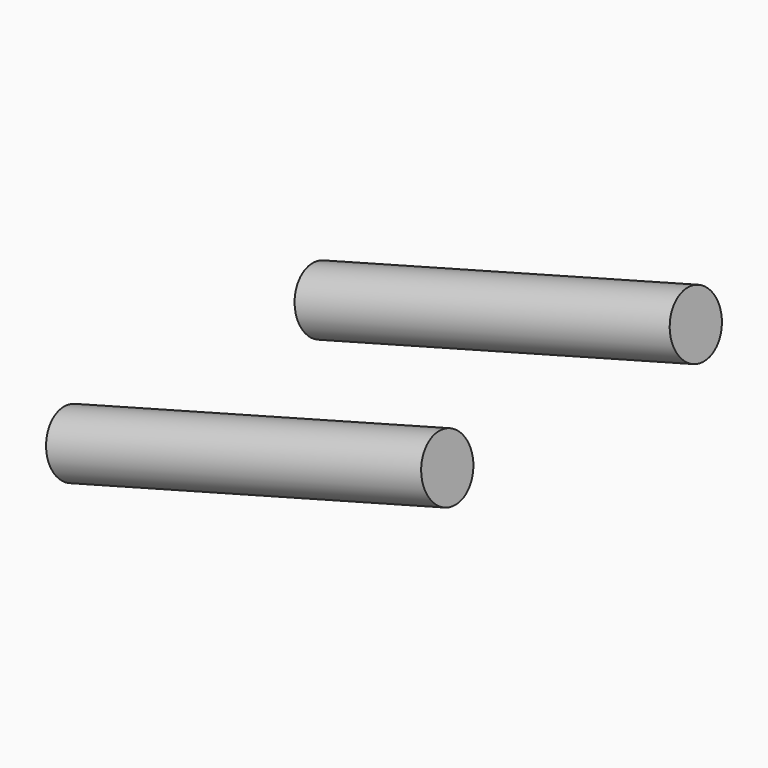
from build123d import *

# Parameters (mm, degrees)
CYLINDER088_R               = 0.8
CYLINDER088_DEPTH           = 10
CYLINDER088_PLACEMENT_ANGLE = 75
CYLINDER087_R               = 0.8
CYLINDER087_DEPTH           = 10
CYLINDER087_PLACEMENT_ANGLE = 75


with BuildPart() as cylinder088:
    # Cylinder088 → Cylinder088 (new body)
    with BuildSketch(Plane.XY):
        Circle(CYLINDER088_R)
    extrude(amount=CYLINDER088_DEPTH)


with BuildPart() as cylinder088_1:
    # Cylinder088 placement: moved
    add(cylinder088.part.moved(Location((532, 36, 7.5))).rotate(Axis((532, 36, 7.5), (0, 1, 0)), CYLINDER088_PLACEMENT_ANGLE))


with BuildPart() as fusion093:
    # Cylinder087 → Cylinder087 (new body)
    with BuildSketch(Plane.XY):
        Circle(CYLINDER087_R)
    extrude(amount=CYLINDER087_DEPTH)


with BuildPart() as fusion093_1:
    # Cylinder087 placement: moved
    add(fusion093.part.moved(Location((532, 44, 7.5))).rotate(Axis((532, 44, 7.5), (0, 1, 0)), CYLINDER087_PLACEMENT_ANGLE))

    # Fusion093: union Cylinder088
    add(cylinder088_1.part)


solid = fusion093_1.part
